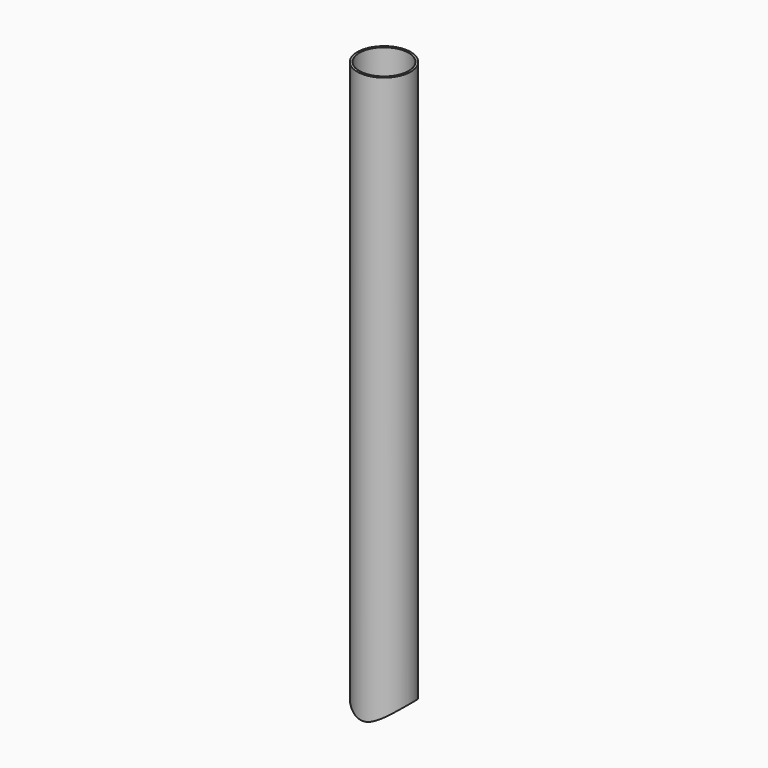
from build123d import *

# Parameters (mm, degrees)
F0_R     = 12.7
F1_DEPTH = 280
F2_R     = 15.875
F3_DEPTH = 50
F4_R     = 11.684
F5_DEPTH = 270.476


with BuildPart() as f1:
    # F0 (on Top) → F1 (new body)
    with BuildSketch(Plane.XY):
        Circle(F0_R)
    extrude(amount=F1_DEPTH)

    # F2 (on Right) → F3 (cut, symmetric)
    with BuildSketch(Plane.YZ):
        Circle(F2_R)
    extrude(amount=F3_DEPTH, both=True, mode=Mode.SUBTRACT)

    # F4 (on face) → F5 (cut, through all)
    with BuildSketch(Plane.XY.offset(280)):
        Circle(F4_R)
    extrude(amount=-F5_DEPTH, mode=Mode.SUBTRACT)


solid = f1.part
